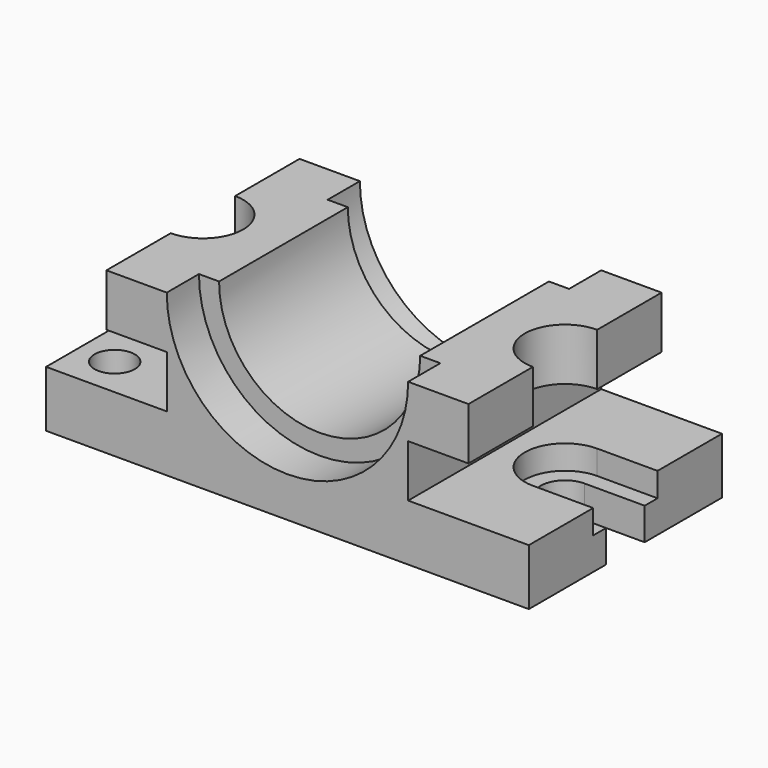
from build123d import *

# Parameters (mm, degrees)
F1_DEPTH      = 30
F1_DEPTH_BACK = 30
F3_DEPTH      = 10
F5_DEPTH      = 10
F7_DEPTH      = 32
F9_DEPTH      = 14
F10_R         = 5
F11_DEPTH     = 15


with BuildPart() as f1:
    # F0 (on Front) → F1 (new body, two sides)
    with BuildSketch(Plane.XZ) as f1_sk:
        with BuildLine():
            Line((45, 7), (45, 20))
            Line((45, 20), (25, 20))
            ThreePointArc((25, 20), (0, -5), (-25, 20))
            Line((-25, 20), (-45, 20))
            Line((-45, 20), (-45, 7))
            Line((-45, 7), (-30, 7))
            Line((-30, 7), (-30, -6))
            Line((-30, -6), (-60, -6))
            Line((-60, -6), (-60, -20))
            Line((-60, -20), (60, -20))
            Line((60, -20), (60, -6))
            Line((60, -6), (30, -6))
            Line((30, -6), (30, 7))
            Line((30, 7), (45, 7))
        make_face()
    extrude(amount=F1_DEPTH)
    extrude(f1_sk.sketch, amount=-F1_DEPTH_BACK)

    # F2 (on face) → F3 (cut)
    with BuildSketch(Plane(origin=(0, 30, 0), x_dir=(-1, 0, 0), z_dir=(0, 1, 0))):
        with BuildLine():
            Line((-25, 20), (-30, 20))
            ThreePointArc((-30, 20), (0, -10), (30, 20))
            Line((30, 20), (25, 20))
            ThreePointArc((25, 20), (0, -5), (-25, 20))
        make_face()
    extrude(amount=-F3_DEPTH, mode=Mode.SUBTRACT)

    # F4 (on face) → F5 (cut)
    with BuildSketch(Plane.XZ.offset(30)):
        with BuildLine():
            Line((30, 20), (-30, 20))
            ThreePointArc((-30, 20), (0, -10), (30, 20))
        make_face()
    extrude(amount=-F5_DEPTH, mode=Mode.SUBTRACT)

    # F6 (on face) → F7 (cut)
    with BuildSketch(Plane.XY.offset(20)):
        with BuildLine():
            Line((-45, 10), (-78.402293, 10))
            Line((-78.402293, 10), (-78.402293, -10))
            Line((-78.402293, -10), (-45, -10))
            ThreePointArc((-45, -10), (-35, 0), (-45, 10))
        make_face()
        with BuildLine():
            ThreePointArc((45, 10), (35, 0), (45, -10))
            Line((45, -10), (78.402293, -10))
            Line((78.402293, -10), (78.402293, 10))
            Line((78.402293, 10), (45, 10))
        make_face()
    extrude(amount=-F7_DEPTH, mode=Mode.SUBTRACT)

    # F8 (on face) → F9 (cut)
    with BuildSketch(Plane.XY.offset(-6)):
        with BuildLine():
            Line((-45, 6), (-64, 6))
            Line((-64, 6), (-64, -6))
            Line((-64, -6), (-45, -6))
            ThreePointArc((-45, -6), (-39, 0), (-45, 6))
        make_face()
        with BuildLine():
            ThreePointArc((45, 6), (39, 0), (45, -6))
            Line((45, -6), (64, -6))
            Line((64, -6), (64, 6))
            Line((64, 6), (45, 6))
        make_face()
    extrude(amount=-F9_DEPTH, mode=Mode.SUBTRACT)

    # F10 (on face) → F11 (cut)
    with BuildSketch(Plane.XY.offset(-6)):
        with Locations((-50.948888, 20)):
            Circle(F10_R)
        with Locations((-50.948888, -20)):
            Circle(F10_R)
    extrude(amount=-F11_DEPTH, mode=Mode.SUBTRACT)


solid = f1.part
